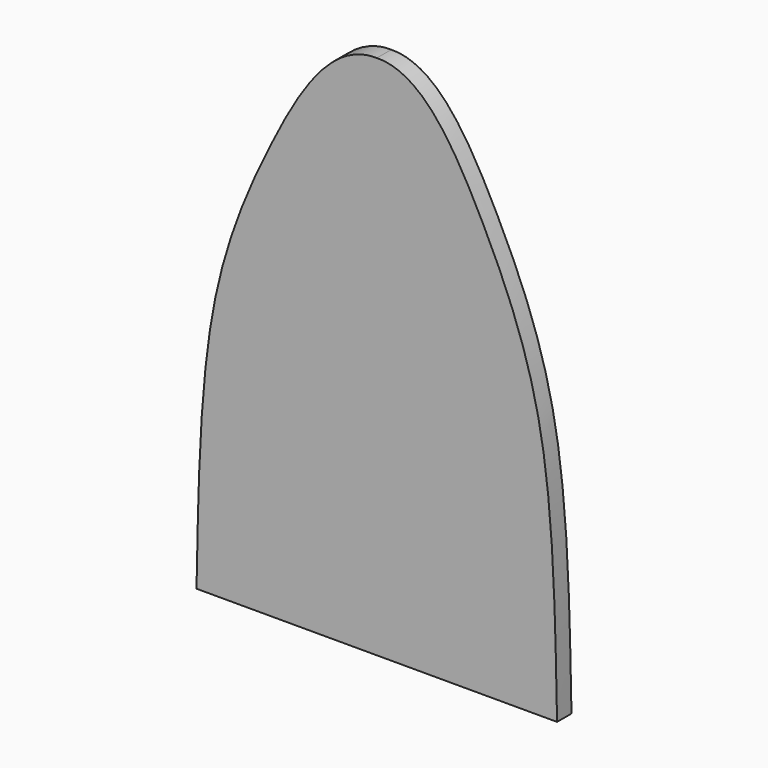
from build123d import *

# Parameters (mm, degrees)
F1_DEPTH = 1.2


with BuildPart() as f1:
    # F0 (on Front) → F1 (new body)
    with BuildSketch(Plane.XZ):
        with BuildLine():
            Line((-12, 0), (12, 0))
            add(Edge.make_bspline(
                [(12, 0), (11.8770069304, 5.7901298018), (11.7463103186, 16.8791776071), (7.5070317864, 27.3283064661), (3.028300358, 35.0717641413), (0, 35)],
                knots=[0, 0, 0, 0, 0.3830624004, 0.7071536795, 1, 1, 1, 1], degree=3))
            add(Edge.make_bspline(
                [(-12, 0), (-11.8770069304, 5.7901298018), (-11.7463103186, 16.8791776071), (-7.5070317864, 27.3283064661), (-3.028300358, 35.0717641413), (0, 35)],
                knots=[0, 0, 0, 0, 0.3830624004, 0.7071536795, 1, 1, 1, 1], degree=3))
        make_face()
    extrude(amount=F1_DEPTH)


solid = f1.part
